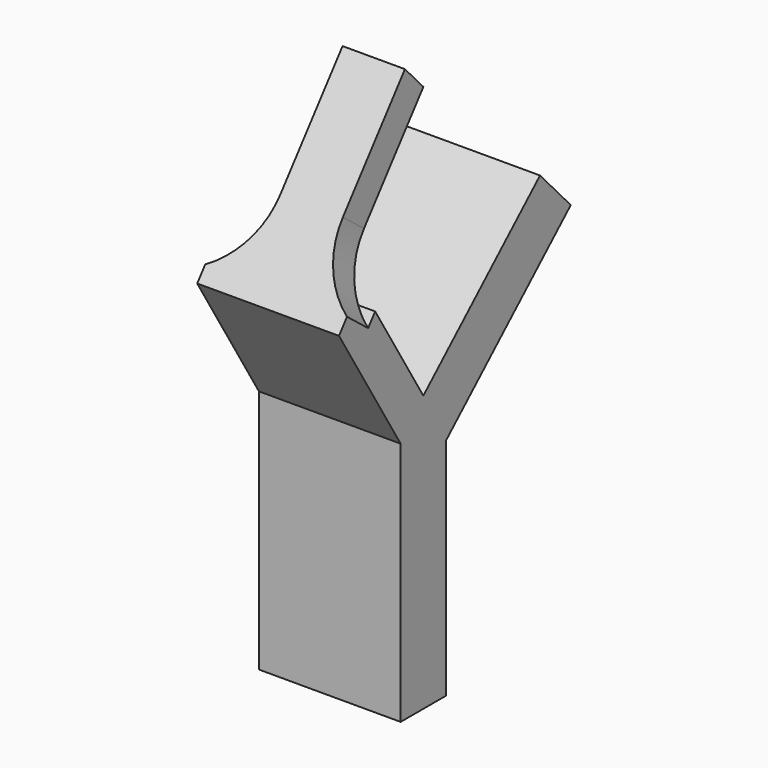
from build123d import *

# Parameters (mm, degrees)
F1_DEPTH = 12.5
F2_R     = 15
F3_DEPTH = 5.9234467243


with BuildPart() as f1:
    # F0 (on Right) → F1 (new body, symmetric)
    with BuildSketch(Plane.YZ):
        Polygon((23.5929106708, 0), (23.5929106708, 39.6152098016), (51.0941416978, 65), (44.3114793878, 72.3481624906), (18.5929106708, 48.6088444054), (7.9668510469, 66.0182343106), (27.3548236127, 90.718568717), (23.2852262267, 95.1274662114), (0, 65.4620191113), (13.5929106708, 43.1918371068), (13.5929106708, 0), align=None)
    extrude(amount=F1_DEPTH, both=True)

    # F2 (on face) → F3 (cut, through all)
    with BuildSketch(Plane(origin=(0, -31.7941860417, 24.9561320338), x_dir=(1, 0, 0), z_dir=(0, -0.7866188975, 0.6174388311))):
        with Locations((-20.5, 67.0375549689)):
            Circle(F2_R)
        with BuildLine():
            ThreePointArc((35.5, 67.0375549689), (20.5, 82.0375549689), (5.5, 67.0375549689))
            ThreePointArc((5.5, 67.0375549689), (20.5, 52.0375549689), (35.5, 67.0375549689))
        make_face()
        with BuildLine():
            ThreePointArc((-12.5, 79.7261325093), (-7.3660744634, 74.283243342), (-5.5, 67.0375549689))
            Line((-5.5, 67.0375549689), (-5.5, 89.206265453))
            Line((-5.5, 89.206265453), (-12.5, 89.206265453))
            Line((-12.5, 89.206265453), (-12.5, 79.7261325093))
        make_face()
        with BuildLine():
            Line((12.5, 89.206265453), (5.5, 89.206265453))
            Line((5.5, 89.206265453), (5.5, 67.0375549689))
            ThreePointArc((5.5, 67.0375549689), (7.3660744634, 74.283243342), (12.5, 79.7261325093))
            Line((12.5, 79.7261325094), (12.5, 89.206265453))
        make_face()
    extrude(amount=-F3_DEPTH, mode=Mode.SUBTRACT)


solid = f1.part
